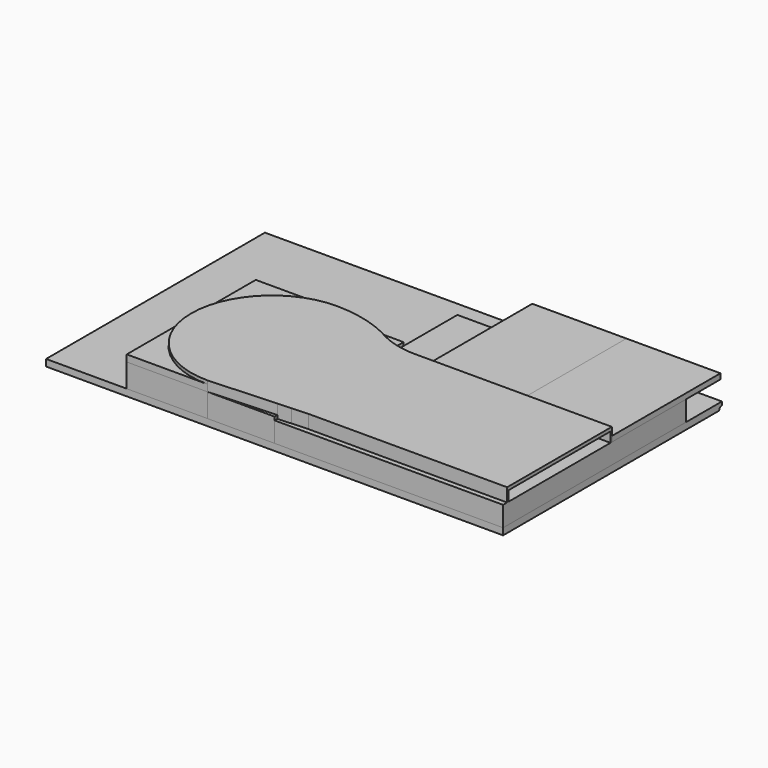
from build123d import *

# Parameters (mm, degrees)
F1_DEPTH      = 170
F1_DEPTH_BACK = 170
F3_W          = 146
F3_H          = 67.5
F4_DEPTH      = 15
F5_DEPTH      = 17.5
F6_DEPTH      = 5
F7_START      = 15
F7_DEPTH      = 10
F8_START      = 22.5
F8_DEPTH      = 2.5
F10_START     = -6
F9_W          = 70
F9_H          = 101
F10_DEPTH     = 4
F11_START     = -6
F11_DEPTH     = 4


with BuildPart() as f1:
    # F0 (on Right) → F1 (new body, two sides)
    with BuildSketch(Plane.YZ) as f1_sk:
        with BuildLine():
            Line((74.3635551598, 7.3352716202), (42.1360177663, 7.3352716202))
            Line((42.1360177663, 7.3352716202), (19.1928188297, 7.3352716202))
            Line((19.1928188297, 7.3352716202), (17.6328188297, 7.3352716202))
            Line((17.6328188297, 7.3352716202), (-123.6164448402, 7.3352716202))
            Line((-123.6164448402, 7.3352716202), (-125.1764448402, 7.3352716202))
            Line((-125.1764448402, 7.3352716202), (-129.1364448402, 7.3352716202))
            Line((-129.1364448402, 7.3352716202), (-129.1364448402, 2.3352716202))
            Line((-129.1364448402, 2.3352716202), (-128.9600639381, 2.3352716202))
            Line((-128.9600639381, 2.3352716202), (-89.3862407517, 2.3352716202))
            Line((-89.3862407517, 2.3352716202), (-84.0335443493, 2.3352716202))
            Line((-84.0335443493, 2.3352716202), (-81.5335443493, 2.3352716202))
            Line((-81.5335443493, 2.3352716202), (71.8635551598, 2.3352716202))
            ThreePointArc((71.8635551598, 2.3352716202), (72.5957882069, 4.1030385731), (74.3635551598, 4.8352716202))
            Line((74.3635551598, 4.8352716202), (74.3635551598, 7.3352716202))
        make_face()
    extrude(amount=F1_DEPTH)
    extrude(f1_sk.sketch, amount=-F1_DEPTH_BACK)


with BuildPart() as f1_1:
    # F2: moved
    add(f1.part.moved(Location((0, 0, -75))))


with BuildPart() as f4:
    # F3 (on face) → F4 (new body)
    with BuildSketch(Plane.XY.offset(-67.6647283798)):
        Polygon((10, -129.1364448402), (170, -129.1364448402), (170, -125.3801366825), (22.1461653805, -125.3801366825), (10, -126.012529823), align=None)
        Polygon((22.1461653805, -125.3801366825), (170, -125.3801366825), (170, -124.1318290125), (22.081142608, -124.1318290125), (10, -124.7611204972), (10, -126.012529823), align=None)
        Polygon((0, -126.5331823259), (10, -126.012529823), (10, -124.7611204972), (0, -125.2820078877), align=None)
        Polygon((0, -129.1364448402), (10, -129.1364448402), (10, -126.012529823), (0, -126.5331823259), align=None)
        with BuildLine():
            ThreePointArc((0, -24.5062859813), (4.9340626254, -26.2986716612), (10, -27.6748616679))
            Line((10, -27.6748616679), (10, -26.3984405515))
            ThreePointArc((10, -26.3984405515), (4.9316439226, -24.9971793077), (0, -23.1721711922))
            Line((0, -23.1721711922), (0, -24.5062859813))
        make_face()
        with BuildLine():
            Line((0, -125.2820078877), (10, -124.7611204972))
            Line((10, -124.7611204972), (10, -27.6748616679))
            ThreePointArc((10, -27.6748616679), (4.9340626254, -26.2986716612), (0, -24.5062859813))
            Line((0, -24.5062859813), (0, -125.2820078877))
        make_face()
        with BuildLine():
            Line((24, -29.247031723), (170, -29.247031723))
            Line((170, -29.247031723), (170, -27.997031723))
            Line((170, -27.997031723), (24, -27.997031723))
            ThreePointArc((24, -27.997031723), (16.9545139676, -27.5960896785), (10, -26.3984405515))
            Line((10, -26.3984405515), (10, -27.6748616679))
            ThreePointArc((10, -27.6748616679), (16.9560004493, -28.8527578154), (24, -29.247031723))
        make_face()
        with BuildLine():
            Line((22.081142608, -124.1318290125), (170, -124.1318290125))
            Line((170, -124.1318290125), (170, -29.247031723))
            Line((170, -29.247031723), (24, -29.247031723))
            ThreePointArc((24, -29.247031723), (16.9560004493, -28.8527578154), (10, -27.6748616679))
            Line((10, -27.6748616679), (10, -124.7611204972))
            Line((10, -124.7611204972), (22.081142608, -124.1318290125))
        make_face()
        with BuildLine():
            ThreePointArc((0, -23.1721711922), (4.9316439226, -24.9971793077), (10, -26.3984405515))
            Line((10, -26.3984405515), (10, -9.1364448402))
            Line((10, -9.1364448402), (0, -9.1364448402))
            Line((0, -9.1364448402), (0, -23.1721711922))
        make_face()
        with Locations((97, 7.1135551598)):
            Rectangle(F3_W, F3_H)
        with BuildLine():
            Line((24, -27.997031723), (170, -27.997031723))
            Line((170, -27.997031723), (170, -26.6364448402))
            Line((170, -26.6364448402), (24, -26.6364448402))
            Line((24, -26.6364448402), (24, 40.8635551598))
            Line((24, 40.8635551598), (0, 40.8635551598))
            Line((0, 40.8635551598), (0, -9.1364448402))
            Line((0, -9.1364448402), (10, -9.1364448402))
            Line((10, -9.1364448402), (10, -26.3984405515))
            ThreePointArc((10, -26.3984405515), (16.9545139676, -27.5960896785), (24, -27.997031723))
        make_face()
    extrude(amount=F4_DEPTH)


with BuildPart() as f5:
    # F3 (on face) → F5 (new body)
    with BuildSketch(Plane.XY.offset(-67.6647283798)):
        with BuildLine():
            Line((0, -9.1364448402), (-50, -9.1364448402))
            ThreePointArc((-50, -9.1364448402), (-28.5904366988, -11.6554458952), (-8.3, -18.9364448402))
            ThreePointArc((-8.3, -18.9364448402), (-4.229556221, -21.2102002007), (0, -23.1721711922))
            Line((0, -23.1721711922), (0, -9.1364448402))
        make_face()
    extrude(amount=F5_DEPTH)


with BuildPart() as f5b:
    # F3 (on face) → F5, piece 2 (new body)
    with BuildSketch(Plane.XY.offset(-67.6647283798)):
        with BuildLine():
            Line((-110, -9.1364448402), (-110, -69.1364448402))
            ThreePointArc((-110, -69.1364448402), (-92.4264068712, -26.710037969), (-50, -9.1364448402))
            Line((-50, -9.1364448402), (-110, -9.1364448402))
        make_face()
    extrude(amount=F5_DEPTH)


with BuildPart() as f5c:
    # F3 (on face) → F5, piece 3 (new body)
    with BuildSketch(Plane.XY.offset(-67.6647283798)):
        with BuildLine():
            Line((-110, -129.1364448402), (-50, -129.1364448402))
            ThreePointArc((-50, -129.1364448402), (-92.4264068712, -111.5628517114), (-110, -69.1364448402))
            Line((-110, -69.1364448402), (-110, -129.1364448402))
        make_face()
    extrude(amount=F5_DEPTH)


with BuildPart() as f5d:
    # F3 (on face) → F5, piece 4 (new body)
    with BuildSketch(Plane.XY.offset(-67.6647283798)):
        Polygon((-50, -129.1364448402), (0, -129.1364448402), (0, -126.5331823259), align=None)
    extrude(amount=F5_DEPTH)


with BuildPart() as f6:
    # F6 (new): a face of the model
    f6_faces = [f5c.part.faces().sort_by_distance(p)[0] for p in [
        (-96.5979236633, -115.7343685034, -50.1647283798),
    ]]
    extrude(f6_faces, amount=F6_DEPTH)


with BuildPart() as f6b:
    # F6#2 (new): a face of the model
    f6_2_faces = [f5b.part.faces().sort_by_distance(p)[0] for p in [
        (-96.5979236633, -22.5385211769, -50.1647283798),
    ]]
    extrude(f6_2_faces, amount=F6_DEPTH)


with BuildPart() as f7:
    # F3 (on face) → F7 (new body)
    with BuildSketch(Plane.XY.offset(-67.6647283798).offset(F7_START)):
        with BuildLine():
            ThreePointArc((-8.3, -18.9364448402), (-28.5904366988, -11.6554458952), (-50, -9.1364448402))
            Line((-50, -9.1364448402), (-50, -10.3864448402))
            ThreePointArc((-50, -10.3864448402), (-29.0654557786, -12.8255216534), (-9.1838834765, -19.8203283166))
            ThreePointArc((-9.1838834765, -19.8203283166), (-4.6877793175, -22.3511366651), (0, -24.5062859813))
            Line((0, -24.5062859813), (0, -23.1721711922))
            ThreePointArc((0, -23.1721711922), (-4.229556221, -21.2102002007), (-8.3, -18.9364448402))
        make_face()
        with BuildLine():
            ThreePointArc((-50, -9.1364448402), (-92.4264068712, -26.710037969), (-110, -69.1364448402))
            Line((-110, -69.1364448402), (-108.75, -69.1364448402))
            ThreePointArc((-108.75, -69.1364448402), (-91.5425233947, -27.5939214455), (-50, -10.3864448402))
            Line((-50, -10.3864448402), (-50, -9.1364448402))
        make_face()
        with BuildLine():
            ThreePointArc((-110, -69.1364448402), (-92.4264068712, -111.5628517114), (-50, -129.1364448402))
            Line((-50, -129.1364448402), (-50, -127.8864448402))
            ThreePointArc((-50, -127.8864448402), (-91.5425233947, -110.6789682349), (-108.75, -69.1364448402))
            Line((-108.75, -69.1364448402), (-110, -69.1364448402))
        make_face()
        Polygon((-50, -127.8864448402), (-50, -129.1364448402), (0, -126.5331823259), (0, -125.2820078877), align=None)
        with BuildLine():
            ThreePointArc((0, -24.5062859813), (4.9340626254, -26.2986716612), (10, -27.6748616679))
            Line((10, -27.6748616679), (10, -26.3984405515))
            ThreePointArc((10, -26.3984405515), (4.9316439226, -24.9971793077), (0, -23.1721711922))
            Line((0, -23.1721711922), (0, -24.5062859813))
        make_face()
        with BuildLine():
            Line((24, -29.247031723), (170, -29.247031723))
            Line((170, -29.247031723), (170, -27.997031723))
            Line((170, -27.997031723), (24, -27.997031723))
            ThreePointArc((24, -27.997031723), (16.9545139676, -27.5960896785), (10, -26.3984405515))
            Line((10, -26.3984405515), (10, -27.6748616679))
            ThreePointArc((10, -27.6748616679), (16.9560004493, -28.8527578154), (24, -29.247031723))
        make_face()
        Polygon((0, -126.5331823259), (10, -126.012529823), (10, -124.7611204972), (0, -125.2820078877), align=None)
        Polygon((22.1461653805, -125.3801366825), (170, -125.3801366825), (170, -124.1318290125), (22.081142608, -124.1318290125), (10, -124.7611204972), (10, -126.012529823), align=None)
    extrude(amount=F7_DEPTH)

    # F3 (on face) → F8 (join)
    with BuildSketch(Plane.XY.offset(-67.6647283798).offset(F8_START)):
        with BuildLine():
            ThreePointArc((-108.75, -69.1364448402), (-91.5425233947, -110.6789682349), (-50, -127.8864448402))
            Line((-50, -127.8864448402), (0, -125.2820078877))
            Line((0, -125.2820078877), (0, -24.5062859813))
            ThreePointArc((0, -24.5062859813), (-4.6877793175, -22.3511366651), (-9.1838834765, -19.8203283166))
            ThreePointArc((-9.1838834765, -19.8203283166), (-29.0654557786, -12.8255216534), (-50, -10.3864448402))
            ThreePointArc((-50, -10.3864448402), (-91.5425233947, -27.5939214455), (-108.75, -69.1364448402))
        make_face()
        with BuildLine():
            Line((0, -125.2820078877), (10, -124.7611204972))
            Line((10, -124.7611204972), (10, -27.6748616679))
            ThreePointArc((10, -27.6748616679), (4.9340626254, -26.2986716612), (0, -24.5062859813))
            Line((0, -24.5062859813), (0, -125.2820078877))
        make_face()
        with BuildLine():
            Line((22.081142608, -124.1318290125), (170, -124.1318290125))
            Line((170, -124.1318290125), (170, -29.247031723))
            Line((170, -29.247031723), (24, -29.247031723))
            ThreePointArc((24, -29.247031723), (16.9560004493, -28.8527578154), (10, -27.6748616679))
            Line((10, -27.6748616679), (10, -124.7611204972))
            Line((10, -124.7611204972), (22.081142608, -124.1318290125))
        make_face()
    extrude(amount=F8_DEPTH)


with BuildPart() as f10:
    # F9 (on face) → F10 (new body)
    with BuildSketch(Plane.XY.offset(-42.6647283798).offset(F10_START)):
        with Locations((135, 22.502968277)):
            Rectangle(F9_W, F9_H)
    extrude(amount=-F10_DEPTH)


with BuildPart() as f11:
    # F9 (on face) → F11 (new body)
    with BuildSketch(Plane.XY.offset(-42.6647283798).offset(F11_START)):
        with Locations((65, 22.502968277)):
            Rectangle(F9_W, F9_H)
    extrude(amount=-F11_DEPTH)


solid = Compound([f1_1.part, f4.part, f5.part, f5b.part, f5c.part, f5d.part, f6.part, f6b.part, f7.part, f10.part, f11.part])
